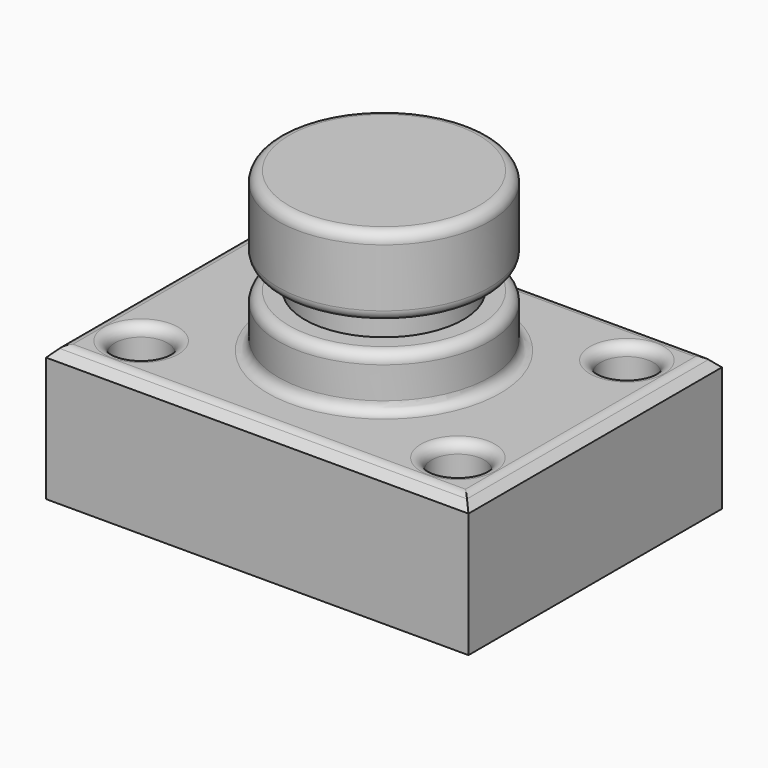
from build123d import *

# Parameters (mm, degrees)
F0_W     = 101.6
F0_H     = 76.2
F1_DEPTH = 32.512
F2_R     = 6.35
F3_DEPTH = 32.766
F4_DEPTH = 32.766
F5_W     = 25.4
F5_H     = 38.1
F7_W     = 15.3330448888
F7_H     = 6.35
F9_SIZE  = 2.54
F10_R    = 2.54


with BuildPart() as f1:
    # F0 (on Top) → F1 (new body)
    with BuildSketch(Plane.XY):
        Rectangle(F0_W, F0_H)
    extrude(amount=F1_DEPTH)

    # F2 (on Top) → F3 (cut)
    with BuildSketch(Plane.XY):
        with Locations((-38.1, -25.4)):
            Circle(F2_R)
    extrude(amount=F3_DEPTH, mode=Mode.SUBTRACT)

    # F2 (on Top) → F4 (cut)
    with BuildSketch(Plane.XY):
        with Locations((-38.1, -25.4)):
            Circle(F2_R)
        with Locations((38.1, -25.4)):
            Circle(F2_R)
        with Locations((-38.1, 25.4)):
            Circle(F2_R)
        with Locations((38.1, 25.4)):
            Circle(F2_R)
    extrude(amount=F4_DEPTH, mode=Mode.SUBTRACT)

    # F5 (on Front) → F6 (revolve)
    with BuildSketch(Plane.XZ):
        with Locations((-12.7, 51.562)):
            Rectangle(F5_W, F5_H)
    revolve(axis=Axis((0, 0, 51.562), (0, 0, -1)))

    # F7 (on Right) → F8 (revolve, cut)
    with BuildSketch(Plane.YZ):
        with Locations((-26.7165224444, 48.387)):
            Rectangle(F7_W, F7_H)
    revolve(axis=Axis((0, 0, 70.612), (0, 0, -1)), mode=Mode.SUBTRACT)

    # F9
    f9_edges = [f1.edges().sort_by_distance(p)[0] for p in [
        (50.8, 0, 32.512),
        (0, 38.1, 32.512),
        (-50.8, 0, 32.512),
        (0, -38.1, 32.512),
    ]]
    chamfer(f9_edges, length=F9_SIZE)

    # F10
    f10_edges = [f1.edges().sort_by_distance(p)[0] for p in [
        (25.4, 0, 70.612),
        (25.4, 0, 45.212),
        (25.4, 0, 51.562),
        (31.75, 25.4, 32.512),
        (48.26, 0, 32.512),
        (0, -35.56, 32.512),
        (0, 35.56, 32.512),
        (-48.26, 0, 32.512),
        (-44.45, -25.4, 32.512),
        (31.75, -25.4, 32.512),
        (-44.45, 25.4, 32.512),
        (25.4, 0, 32.512),
    ]]
    fillet(f10_edges, radius=F10_R)


solid = f1.part
